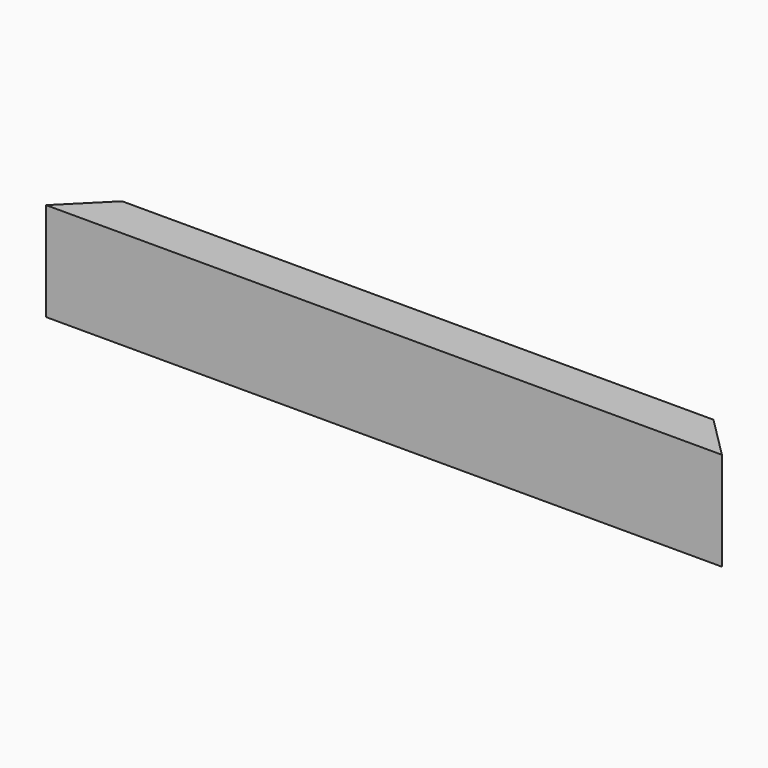
from build123d import *

# Parameters (mm, degrees)
F0_W     = 38.1
F0_H     = 88.9
F1_DEPTH = 609.6
F3_DEPTH = 88.9


with BuildPart() as f1:
    # F0 (on Right) → F1 (new body)
    with BuildSketch(Plane.YZ):
        with Locations((-19.05, 44.45)):
            Rectangle(F0_W, F0_H)
    extrude(amount=F1_DEPTH)

    # F2 (on face) → F3 (cut)
    with BuildSketch(Plane.XY.offset(88.9)):
        Polygon((0, 0), (0, -38.1), (38.1, 0), align=None)
        Polygon((571.5, 0), (609.6, -38.1), (609.6, 0), align=None)
    extrude(amount=-F3_DEPTH, mode=Mode.SUBTRACT)


solid = f1.part
